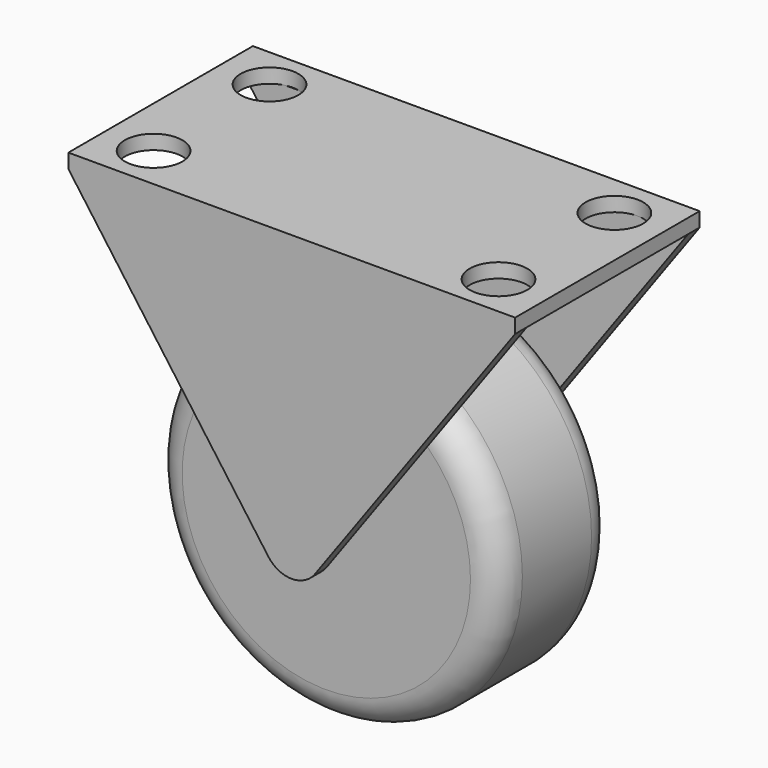
from build123d import *

# Parameters (mm, degrees)
F0_R     = 19.05
F1_DEPTH = 7.9375
F2_R     = 3.175
F4_W     = 49.1998
F4_H     = 25.4
F4_R     = 3.175
F5_DEPTH = 1.5875
F7_DEPTH = 1.5875
F9_DEPTH = 1.5875


with BuildPart() as f1:
    # F0 (on Front) → F1 (new body, symmetric)
    with BuildSketch(Plane.XZ):
        Circle(F0_R)
    extrude(amount=F1_DEPTH, both=True)

    # F2
    f2_edges = [f1.edges().sort_by_distance(p)[0] for p in [
        (-19.05, 7.9375, 0),
        (-19.05, -7.9375, 0),
    ]]
    fillet(f2_edges, radius=F2_R)


with BuildPart() as f5:
    # F4 (on offset) → F5 (new body)
    with BuildSketch(Plane.XY.offset(30.1498)):
        Rectangle(F4_W, F4_H)
        with Locations((-19.081018, -7.862644)):
            Circle(F4_R, mode=Mode.SUBTRACT)
        with Locations((19.018688, -8.012234)):
            Circle(F4_R, mode=Mode.SUBTRACT)
        with Locations((-19.018688, 8.012234)):
            Circle(F4_R, mode=Mode.SUBTRACT)
        with Locations((19.081018, 7.862644)):
            Circle(F4_R, mode=Mode.SUBTRACT)
    extrude(amount=-F5_DEPTH)

    # F6 (on face) → F7 (join)
    with BuildSketch(Plane.XZ.offset(12.7)):
        with BuildLine():
            Line((-24.5999, 28.5623), (-2.571694, -1.861992))
            ThreePointArc((-2.571694, -1.861992), (0, -3.175), (2.571694, -1.861992))
            Line((2.571694, -1.861992), (24.5999, 28.5623))
            Line((24.5999, 28.5623), (-24.5999, 28.5623))
        make_face()
    extrude(amount=-F7_DEPTH)

    # F8 (on face) → F9 (join)
    with BuildSketch(Plane(origin=(0, 12.7, 0), x_dir=(-1, 0, 0), z_dir=(0, 1, 0))):
        with BuildLine():
            Line((-24.5999, 28.5623), (-2.571694, -1.861992))
            ThreePointArc((-2.571694, -1.861992), (0, -3.175), (2.571694, -1.861992))
            Line((2.571694, -1.861992), (24.5999, 28.5623))
            Line((24.5999, 28.5623), (-24.5999, 28.5623))
        make_face()
    extrude(amount=-F9_DEPTH)


solid = Compound([f1.part, f5.part])
